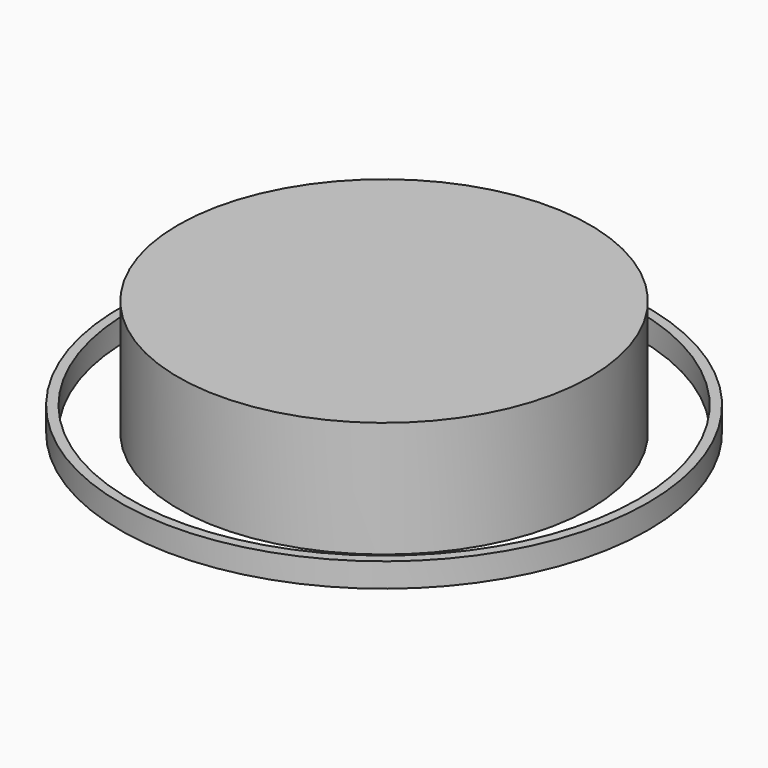
from build123d import *

# Parameters (mm, degrees)
F0_R     = 41
F0_R_2   = 39.5
F1_DEPTH = 3.75
F2_R     = 32
F3_DEPTH = 18


with BuildPart() as f1:
    # F0 (on Top) → F1 (new body)
    with BuildSketch(Plane.XY):
        Circle(F0_R)
        Circle(F0_R_2, mode=Mode.SUBTRACT)
    extrude(amount=F1_DEPTH)


with BuildPart() as f3:
    # F2 (on Top) → F3 (new body)
    with BuildSketch(Plane.XY):
        Circle(F2_R)
        Circle(F2_R)
    extrude(amount=F3_DEPTH)


solid = Compound([f1.part, f3.part])
